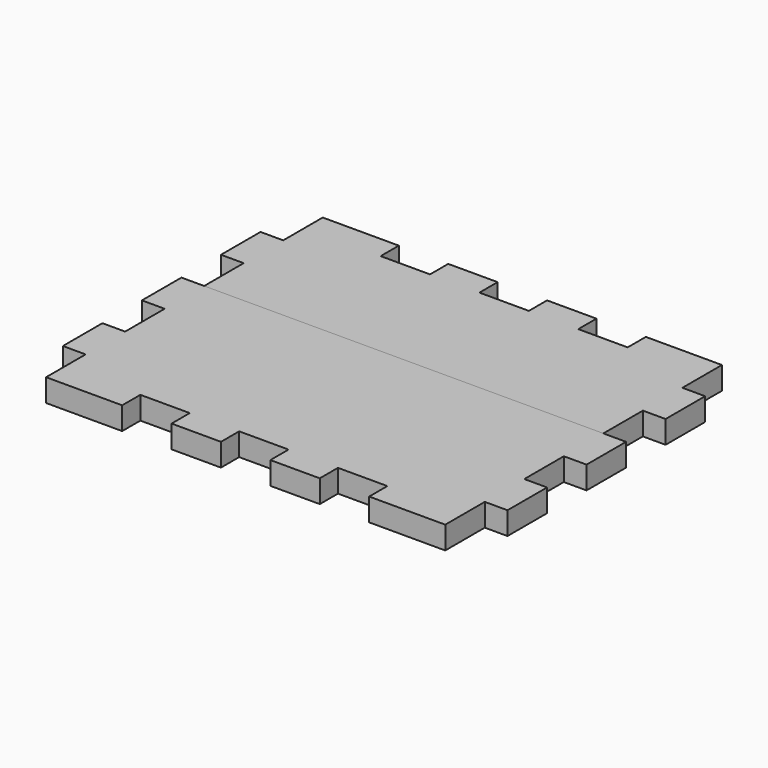
from build123d import *

# Parameters (mm, degrees)
F1_DEPTH = 5.842
F2_DEPTH = 5.842


with BuildPart() as f1:
    # F0 (on Top) → F1 (new body)
    with BuildSketch(Plane.XY):
        Polygon((25.4, 0), (5.842, 0), (5.842, -12.7), (0, -12.7), (0, -25.4), (5.842, -25.4), (5.842, -38.1), (108.458, -38.1), (108.458, -25.4), (114.3, -25.4), (114.3, -12.7), (108.458, -12.7), (108.458, 0), (88.9, 0), (88.9, -5.842), (76.2, -5.842), (76.2, 0), (63.5, 0), (63.5, -5.842), (50.8, -5.842), (50.8, 0), (38.1, 0), (38.1, -5.842), (25.4, -5.842), align=None)
    extrude(amount=F1_DEPTH)


with BuildPart() as f2:
    # F0 (on Top) → F2 (new body)
    with BuildSketch(Plane.XY):
        Polygon((108.458, -38.1), (5.842, -38.1), (0, -38.1), (0, -50.8), (5.842, -50.8), (5.842, -63.5), (0, -63.5), (0, -76.2), (5.842, -76.2), (5.842, -88.9), (25.4, -88.9), (25.4, -83.058), (38.1, -83.058), (38.1, -88.9), (50.8, -88.9), (50.8, -83.058), (63.5, -83.058), (63.5, -88.9), (76.2, -88.9), (76.2, -83.058), (88.9, -83.058), (88.9, -88.9), (108.458, -88.9), (108.458, -76.2), (114.3, -76.2), (114.3, -63.5), (108.458, -63.5), (108.458, -50.8), (114.3, -50.8), (114.3, -38.1), align=None)
    extrude(amount=F2_DEPTH)


solid = Compound([f1.part, f2.part])
